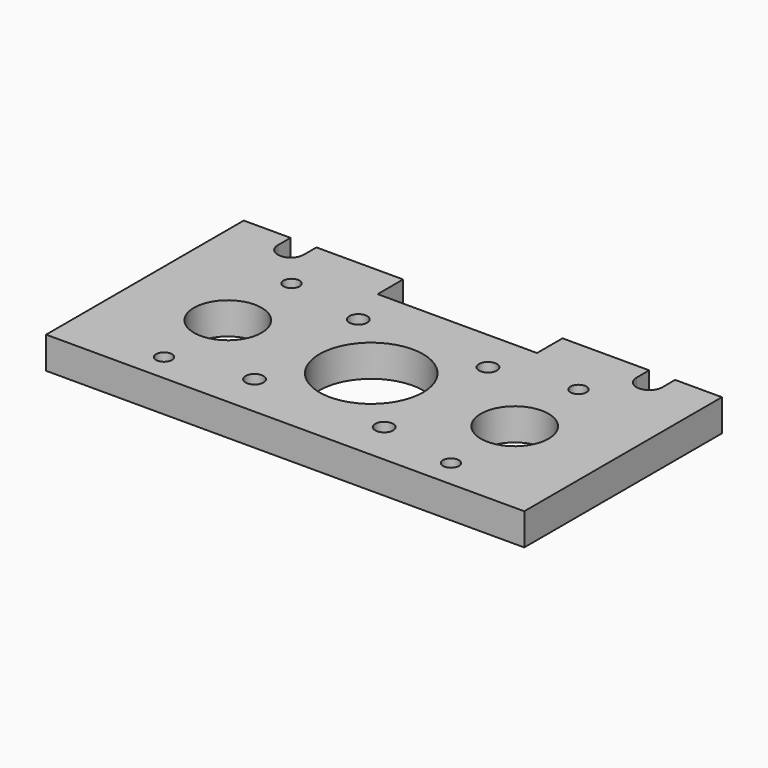
from build123d import *

# Parameters (mm, degrees)
F0_W     = 120
F0_H     = 62
F0_R     = 2
F0_R_2   = 2.25
F0_R_3   = 8.5
F0_R_4   = 13
F1_DEPTH = 8
F2_W     = 40
F2_H     = 8
F3_DEPTH = 8.001


with BuildPart() as f1:
    # F0 (on Top) → F1 (new body)
    with BuildSketch(Plane.XY):
        Rectangle(F0_W, F0_H)
        with Locations((-36, -24)):
            Circle(F0_R, mode=Mode.SUBTRACT)
        with Locations((-16.263456, -20.263456)):
            Circle(F0_R_2, mode=Mode.SUBTRACT)
        with Locations((-36, -4)):
            Circle(F0_R_3, mode=Mode.SUBTRACT)
        with Locations((16.263456, -20.263456)):
            Circle(F0_R_2, mode=Mode.SUBTRACT)
        with Locations((36, -24)):
            Circle(F0_R, mode=Mode.SUBTRACT)
        with Locations((0, -4)):
            Circle(F0_R_4, mode=Mode.SUBTRACT)
        with Locations((36, -4)):
            Circle(F0_R_3, mode=Mode.SUBTRACT)
        with Locations((-16.263456, 12.263456)):
            Circle(F0_R_2, mode=Mode.SUBTRACT)
        with Locations((-36, 16)):
            Circle(F0_R, mode=Mode.SUBTRACT)
        with Locations((16.263456, 12.263456)):
            Circle(F0_R_2, mode=Mode.SUBTRACT)
        with Locations((36, 16)):
            Circle(F0_R, mode=Mode.SUBTRACT)
    extrude(amount=F1_DEPTH)

    # F2 (on face) → F3 (cut, through all)
    with BuildSketch(Plane.XY.offset(8)):
        with Locations((0, 27)):
            Rectangle(F2_W, F2_H)
        with BuildLine():
            Line((-48.25, 31), (-48.25, 27))
            ThreePointArc((-48.25, 27), (-45, 23.75), (-41.75, 27))
            Line((-41.75, 27), (-41.75, 31))
            Line((-41.75, 31), (-48.25, 31))
        make_face()
        with BuildLine():
            Line((41.75, 31), (41.75, 27))
            ThreePointArc((41.75, 27), (45, 23.75), (48.25, 27))
            Line((48.25, 27), (48.25, 31))
            Line((48.25, 31), (41.75, 31))
        make_face()
    extrude(amount=-F3_DEPTH, mode=Mode.SUBTRACT)


solid = f1.part
